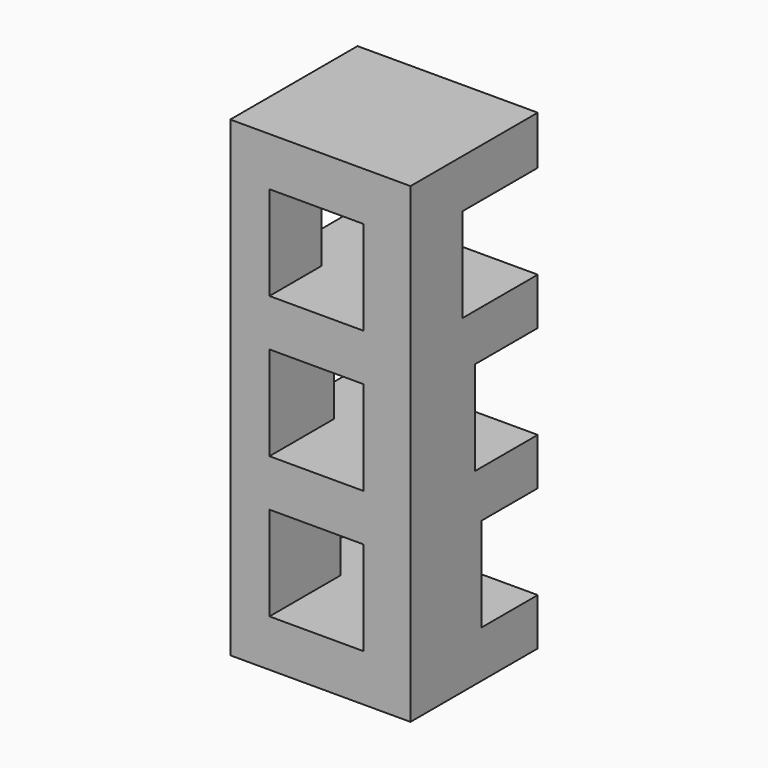
from build123d import *

# Parameters (mm, degrees)
F0_W     = 21.45
F0_H     = 10.15
F1_DEPTH = 30.1
F2_W     = 4.5
F2_H     = 6
F2_W_2   = 5
F2_W_3   = 6
F3_DEPTH = 20
F4_W     = 6
F4_H     = 6
F5_DEPTH = 25
F6_W     = 38.292414
F6_H     = 55.741895
F7_DEPTH = 25


with BuildPart() as f1:
    # F0 (on Top) → F1 (new body)
    with BuildSketch(Plane.XY):
        Rectangle(F0_W, F0_H)
        Polygon((10.725, 7.226717), (10.725, 5.075), (10.725, -5.075), (13.978312, -5.075), (13.978312, 7.226717), align=None)
        Polygon((13.978312, 7.226717), (13.978312, -5.075), (17.385745, -5.075), (17.385745, 9.236451), (13.978312, 9.236451), align=None)
    extrude(amount=F1_DEPTH)

    # F2 (on face) → F3 (cut)
    with BuildSketch(Plane(origin=(-10.725, 0, 0), x_dir=(0, -1, 0), z_dir=(-1, 0, 0))):
        with Locations((-2.825, 6)):
            Rectangle(F2_W, F2_H)
        with Locations((-2.575, 15)):
            Rectangle(F2_W_2, F2_H)
        with Locations((-2.075, 24)):
            Rectangle(F2_W_3, F2_H)
    extrude(amount=-F3_DEPTH, mode=Mode.SUBTRACT)

    # F4 (on face) → F5 (cut)
    with BuildSketch(Plane.XZ.offset(5.075)):
        with Locations((-5.225, 6)):
            Rectangle(F4_W, F4_H)
        with Locations((-5.225, 15)):
            Rectangle(F4_W, F4_H)
        with Locations((-5.225, 24)):
            Rectangle(F4_W, F4_H)
    extrude(amount=-F5_DEPTH, mode=Mode.SUBTRACT)

    # F6 (on face) → F7 (cut)
    with BuildSketch(Plane.XZ.offset(5.075)):
        with Locations((19.921207, 9.509602)):
            Rectangle(F6_W, F6_H)
    extrude(amount=-F7_DEPTH, mode=Mode.SUBTRACT)


solid = f1.part
